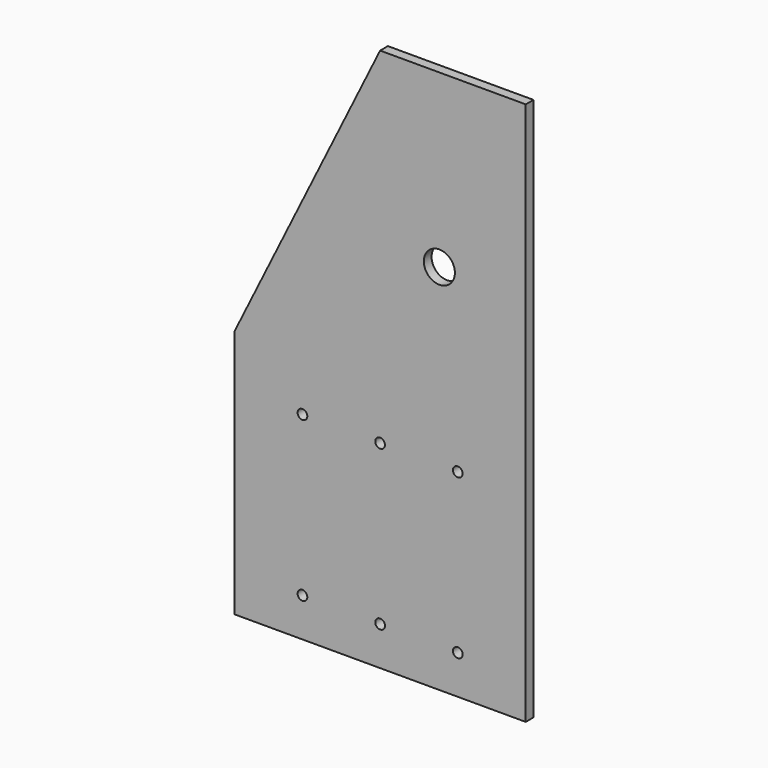
from build123d import *

# Parameters (mm, degrees)
F0_R     = 2.5
F0_R_2   = 8
F1_DEPTH = 5


with BuildPart() as f1:
    # F0 (on Front) → F1 (new body)
    with BuildSketch(Plane.XZ):
        Polygon((-75, -140), (75, -140), (75, 140), (0, 140), (-75, -11.699823), align=None)
        with Locations((-40, -120)):
            Circle(F0_R, mode=Mode.SUBTRACT)
        with Locations((-40, -38)):
            Circle(F0_R, mode=Mode.SUBTRACT)
        with Locations((0, -120)):
            Circle(F0_R, mode=Mode.SUBTRACT)
        with Locations((40, -120)):
            Circle(F0_R, mode=Mode.SUBTRACT)
        with Locations((0, -38)):
            Circle(F0_R, mode=Mode.SUBTRACT)
        with Locations((40, -38)):
            Circle(F0_R, mode=Mode.SUBTRACT)
        with Locations((30.5, 51.75)):
            Circle(F0_R_2, mode=Mode.SUBTRACT)
    extrude(amount=F1_DEPTH)


solid = f1.part
